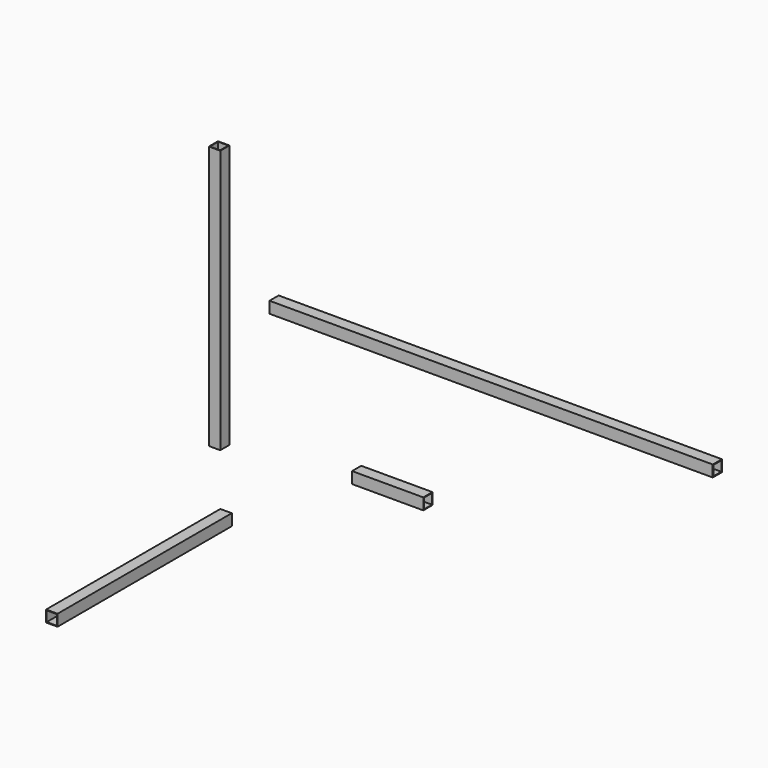
from build123d import *

# Parameters (mm, degrees)
F0_W     = 75
F0_H     = 75
F0_W_2   = 67
F0_H_2   = 67
F1_DEPTH = 1725
F2_W     = 75
F2_H     = 75
F2_W_2   = 65
F2_H_2   = 65
F3_DEPTH = 2900
F4_W     = 75
F4_H     = 75
F4_W_2   = 67
F4_H_2   = 67
F5_DEPTH = 1425
F6_W     = 75
F6_H     = 75
F6_W_2   = 67
F6_H_2   = 67
F7_DEPTH = 466


with BuildPart() as f1:
    # F0 (on Top) → F1 (new body)
    with BuildSketch(Plane.XY):
        Rectangle(F0_W, F0_H)
        Rectangle(F0_W_2, F0_H_2, mode=Mode.SUBTRACT)
    extrude(amount=F1_DEPTH)


with BuildPart() as f3:
    # F2 (on Right) → F3 (new body)
    with BuildSketch(Plane.YZ):
        with Locations((449.524915, 628.674006)):
            Rectangle(F2_W, F2_H)
        with Locations((449.524915, 628.674006)):
            Rectangle(F2_W_2, F2_H_2, mode=Mode.SUBTRACT)
    extrude(amount=F3_DEPTH)


with BuildPart() as f5:
    # F4 (on Front) → F5 (new body)
    with BuildSketch(Plane.XZ):
        with Locations((45.311397, -400.419766)):
            Rectangle(F4_W, F4_H)
        with Locations((45.311397, -400.419766)):
            Rectangle(F4_W_2, F4_H_2, mode=Mode.SUBTRACT)
    extrude(amount=F5_DEPTH)


with BuildPart() as f7:
    # F6 (on Right) → F7 (new body)
    with BuildSketch(Plane.YZ):
        with Locations((1124.628758, -626.71628)):
            Rectangle(F6_W, F6_H)
        with Locations((1124.628758, -626.71628)):
            Rectangle(F6_W_2, F6_H_2, mode=Mode.SUBTRACT)
    extrude(amount=F7_DEPTH)


solid = Compound([f1.part, f3.part, f5.part, f7.part])
